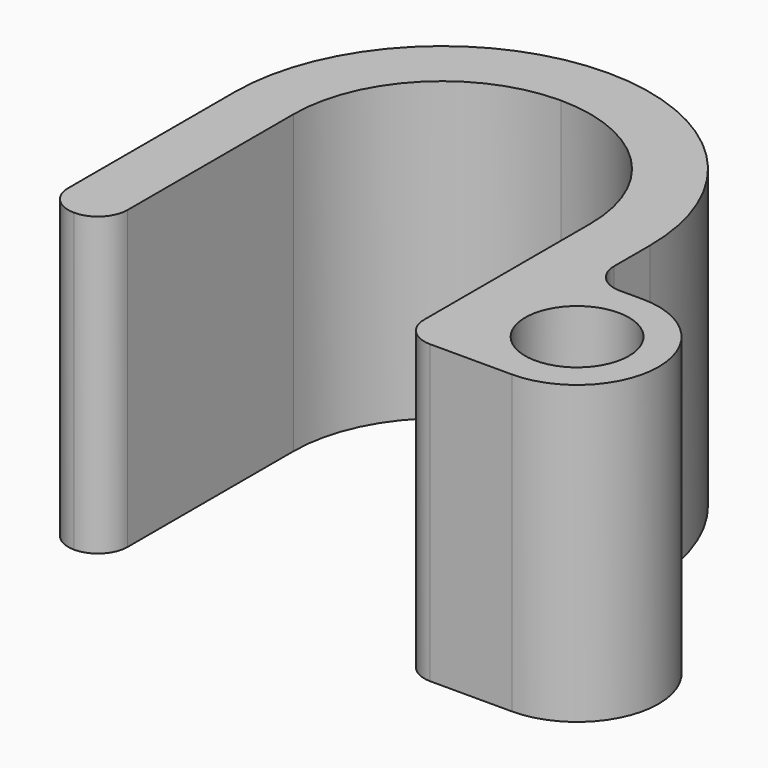
from build123d import *

# Parameters (mm, degrees)
F0_R     = 0.875
F1_DEPTH = 5


with BuildPart() as f1:
    # F0 (on Top) → F1 (new body)
    with BuildSketch(Plane.XY):
        with BuildLine():
            ThreePointArc((-2.5, 0), (-1.767767, 1.767767), (0, 2.5))
            ThreePointArc((0, 2.5), (1.767767, 1.767767), (2.5, 0))
            Line((2.5, 0), (2.5, -3.5))
            ThreePointArc((2.5, -3.5), (2.646447, -3.853553), (3, -4))
            Line((3, -4), (3.5, -4))
            Line((3.5, -4), (4.375, -4))
            ThreePointArc((4.375, -4), (5.75, -2.625), (4.375, -1.25))
            Line((4.375, -1.25), (4, -1.25))
            ThreePointArc((4, -1.25), (3.646447, -1.103553), (3.5, -0.75))
            Line((3.5, -0.75), (3.5, 0))
            ThreePointArc((3.5, 0), (2.474874, 2.474874), (0, 3.5))
            ThreePointArc((0, 3.5), (-2.474874, 2.474874), (-3.5, 0))
            Line((-3.5, 0), (-3.5, -3.5))
            ThreePointArc((-3.5, -3.5), (-3.353553, -3.853553), (-3, -4))
            ThreePointArc((-3, -4), (-2.646447, -3.853553), (-2.5, -3.5))
            Line((-2.5, -3.5), (-2.5, 0))
        make_face()
        with Locations((4.375, -2.625)):
            Circle(F0_R, mode=Mode.SUBTRACT)
    extrude(amount=F1_DEPTH)


solid = f1.part
